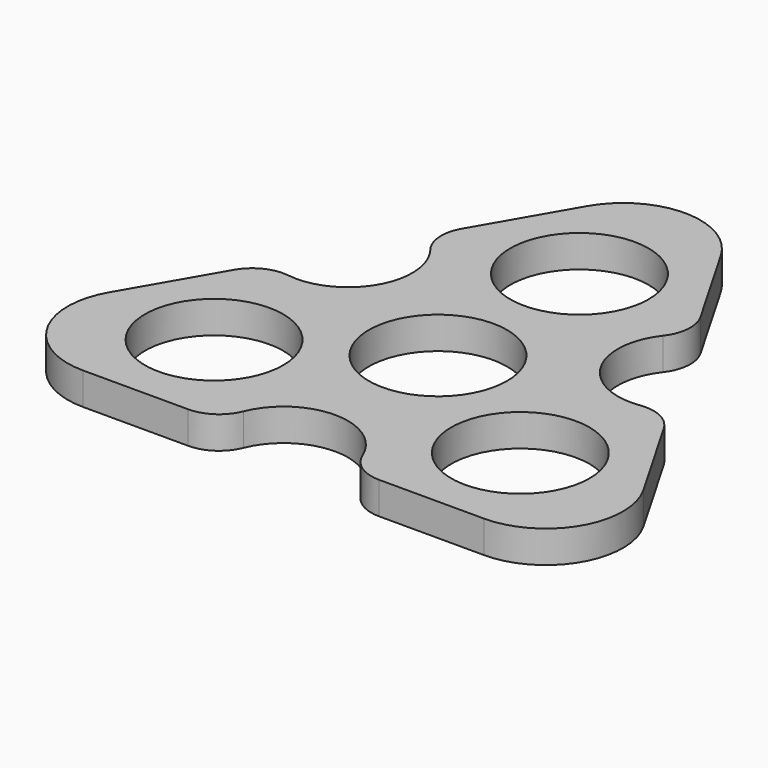
from build123d import *

# Parameters (mm, degrees)
F0_R     = 10.75
F1_DEPTH = 5
F2_R     = 12
F3_R     = 6


with BuildPart() as f1:
    # F0 (on Top) → F1 (new body)
    with BuildSketch(Plane.XY):
        with BuildLine():
            ThreePointArc((-10, -30), (0, -20), (10, -30))
            Line((10, -30), (51.961524, -30))
            Line((51.961524, -30), (30.980762, 6.339746))
            ThreePointArc((30.980762, 6.339746), (17.320508, 10), (20.980762, 23.660254))
            Line((20.980762, 23.660254), (0, 60))
            Line((0, 60), (-20.980762, 23.660254))
            ThreePointArc((-20.980762, 23.660254), (-17.320508, 10), (-30.980762, 6.339746))
            Line((-30.980762, 6.339746), (-51.961524, -30))
            Line((-51.961524, -30), (-10, -30))
        make_face()
        with Locations((-23.8157, -13.749997)):
            Circle(F0_R, mode=Mode.SUBTRACT)
        with Locations((23.815698, -13.750001)):
            Circle(F0_R, mode=Mode.SUBTRACT)
        Circle(F0_R, mode=Mode.SUBTRACT)
        with Locations((0, 27.5)):
            Circle(F0_R, mode=Mode.SUBTRACT)
    extrude(amount=F1_DEPTH)

    # F2
    f2_edges = [f1.edges().sort_by_distance(p)[0] for p in [
        (-51.961524, -30, 2.5),
        (51.961524, -30, 2.5),
        (0, 60, 2.5),
    ]]
    fillet(f2_edges, radius=F2_R)

    # F3
    f3_edges = [f1.edges().sort_by_distance(p)[0] for p in [
        (30.980762, 6.339746, 2.5),
        (20.980762, 23.660254, 2.5),
        (-20.980762, 23.660254, 2.5),
        (-30.980762, 6.339746, 2.5),
        (-10, -30, 2.5),
        (10, -30, 2.5),
    ]]
    fillet(f3_edges, radius=F3_R)


solid = f1.part
